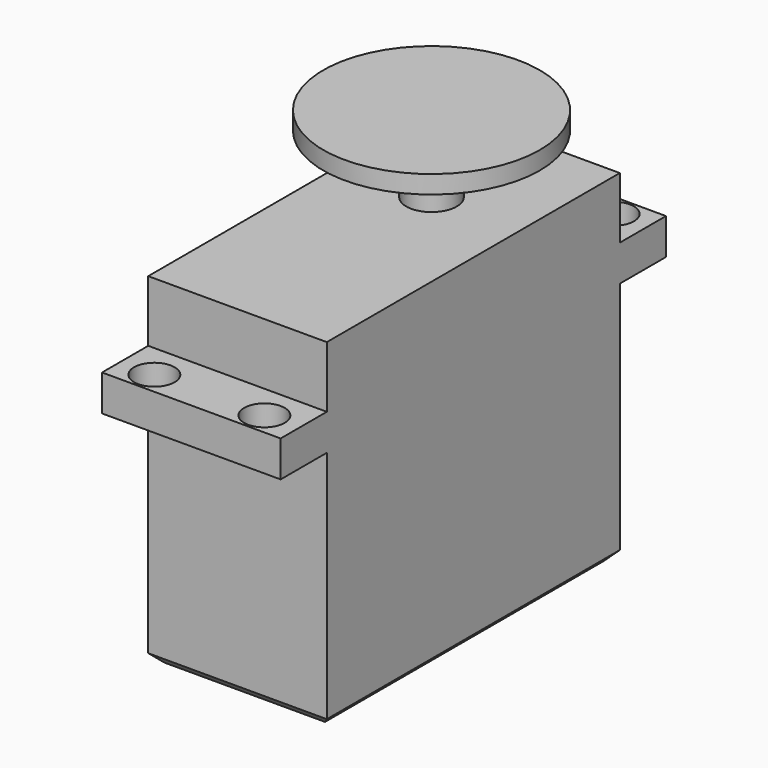
from build123d import *

# Parameters (mm, degrees)
F0_W      = 19.8
F0_H      = 40.6
F1_DEPTH  = 27
F2_W      = 19.8
F2_H      = 6.4
F2_R      = 2.25
F3_DEPTH  = 4
F1_FACE_W = 19.8
F1_FACE_H = 40.6
F4_DEPTH  = 10.8
F5_SIZE   = 1
F6_R      = 2.8
F7_DEPTH  = 6.5
F8_R      = 12
F8_R_2    = 2.8
F9_DEPTH  = 2


with BuildPart() as f1:
    # F0 (on Top) → F1 (new body)
    with BuildSketch(Plane.XY):
        with Locations((-4.307641, -5.947228)):
            Rectangle(F0_W, F0_H)
    extrude(amount=F1_DEPTH)

    # F2 (on face) → F3 (join)
    with BuildSketch(Plane.XY.offset(27)):
        with Locations((-4.307641, 17.552772)):
            Rectangle(F2_W, F2_H)
        with Locations((-10.407641, 18.252772)):
            Circle(F2_R, mode=Mode.SUBTRACT)
        with Locations((1.792359, 18.252772)):
            Circle(F2_R, mode=Mode.SUBTRACT)
        with Locations((-4.307641, -29.447228)):
            Rectangle(F2_W, F2_H)
        with Locations((-10.407641, -30.147228)):
            Circle(F2_R, mode=Mode.SUBTRACT)
        with Locations((1.792359, -30.147228)):
            Circle(F2_R, mode=Mode.SUBTRACT)
    extrude(amount=F3_DEPTH)

    # F1_face (on face) → F4 (join)
    with BuildSketch(Plane(origin=(-4.307641, -5.947228, 27), x_dir=(1, 0, 0), z_dir=(0, 0, 1))):
        Rectangle(F1_FACE_W, F1_FACE_H)
    extrude(amount=F4_DEPTH)

    # F5
    f5_edges = [f1.edges().sort_by_distance(p)[0] for p in [
        (-14.207641, -5.947228, 0),
        (-4.307641, 14.352772, 0),
        (5.592359, -5.947228, 0),
        (-4.307641, -26.247228, 0),
    ]]
    chamfer(f5_edges, length=F5_SIZE)

    # F6 (on face) → F7 (join)
    with BuildSketch(Plane.XY.offset(37.8)):
        with Locations((-4.307641, 0.636772)):
            Circle(F6_R)
    extrude(amount=F7_DEPTH)

    # F8 (on face) → F9 (join)
    with BuildSketch(Plane.XY.offset(44.3)):
        with Locations((-4.307641, 0.636772)):
            Circle(F8_R)
        with Locations((-4.307641, 0.636772)):
            Circle(F8_R_2, mode=Mode.SUBTRACT)
        with Locations((-4.307641, 0.636772)):
            Circle(F8_R_2)
    extrude(amount=F9_DEPTH)


solid = f1.part
